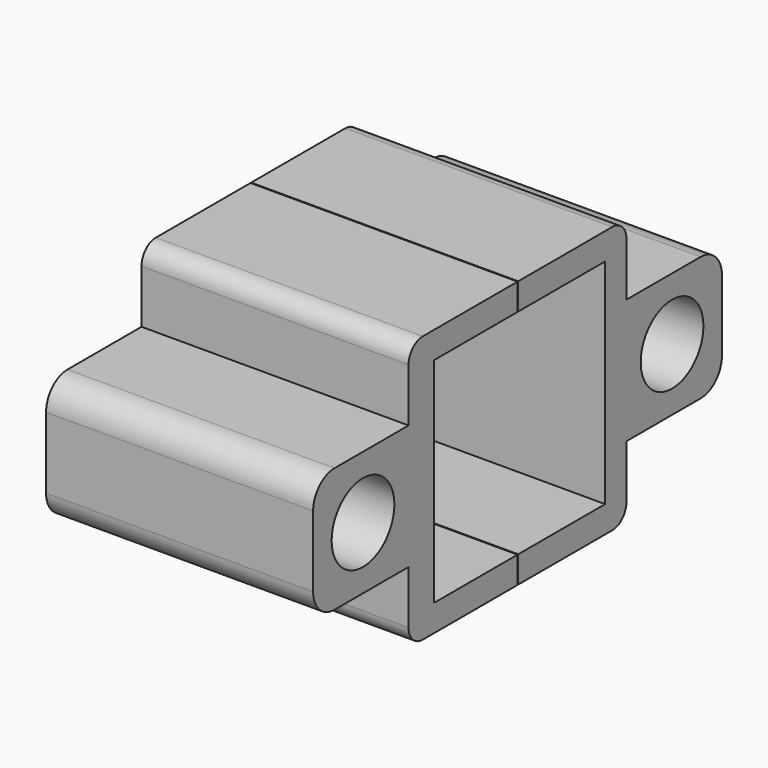
from build123d import *

# Parameters (mm, degrees)
F0_W      = 30
F0_H      = 30
F1_DEPTH  = 30
F2_W      = 30
F2_H      = 14
F3_DEPTH  = 14
F4_R      = 4.4
F5_DEPTH  = 30
F7_R      = 3
F8_R      = 3
F9_W      = 24
F9_H      = 24
F10_DEPTH = 27
F11_R     = 2
F12_W     = 0.1
F12_H     = 30
F13_DEPTH = 30


with BuildPart() as f1:
    # F0 (on Top) → F1 (new body)
    with BuildSketch(Plane.XY):
        with Locations((15, 0.29939726)):
            Rectangle(F0_W, F0_H)
    extrude(amount=F1_DEPTH)

    # F2 (on face) → F3 (join)
    with BuildSketch(Plane.XZ.offset(14.70060274)):
        with Locations((15, 15)):
            Rectangle(F2_W, F2_H)
    extrude(amount=F3_DEPTH)

    # F4 (on face) → F5 (cut)
    with BuildSketch(Plane(origin=(0, 0, 0), x_dir=(0, -1, 0), z_dir=(-1, 0, 0))):
        with Locations((21.70060274, 15)):
            Circle(F4_R)
    extrude(amount=-F5_DEPTH, mode=Mode.SUBTRACT)

    # F6: F1 across plane


with BuildPart() as f1_1:
    add(f1.part)
    add(f1.part.mirror(Plane.XZ))

    # F7
    f7_edges = [f1_1.edges().sort_by_distance(p)[0] for p in [
        (15, -28.700603, 8),
        (15, -28.700603, 22),
    ]]
    fillet(f7_edges, radius=F7_R)

    # F8
    f8_edges = [f1_1.edges().sort_by_distance(p)[0] for p in [
        (15, 28.700603, 8),
        (15, 28.700603, 22),
    ]]
    fillet(f8_edges, radius=F8_R)

    # F9 (on face) → F10 (cut)
    with BuildSketch(Plane.YZ.offset(30)):
        with Locations((0.29939726, 15)):
            Rectangle(F9_W, F9_H)
    extrude(amount=-F10_DEPTH, mode=Mode.SUBTRACT)

    # F11
    f11_edges = [f1_1.edges().sort_by_distance(p)[0] for p in [
        (15, -15.299397, 0),
        (15, -15.299397, 30),
        (15, 15.299397, 30),
        (15, 15.299397, 0),
    ]]
    fillet(f11_edges, radius=F11_R)

    # F12 (on face) → F13 (cut)
    with BuildSketch(Plane(origin=(0, 0, 0), x_dir=(0, -1, 0), z_dir=(-1, 0, 0))):
        with Locations((-0.05, 15)):
            Rectangle(F12_W, F12_H)
    extrude(amount=-F13_DEPTH, mode=Mode.SUBTRACT)


solid = f1_1.part
